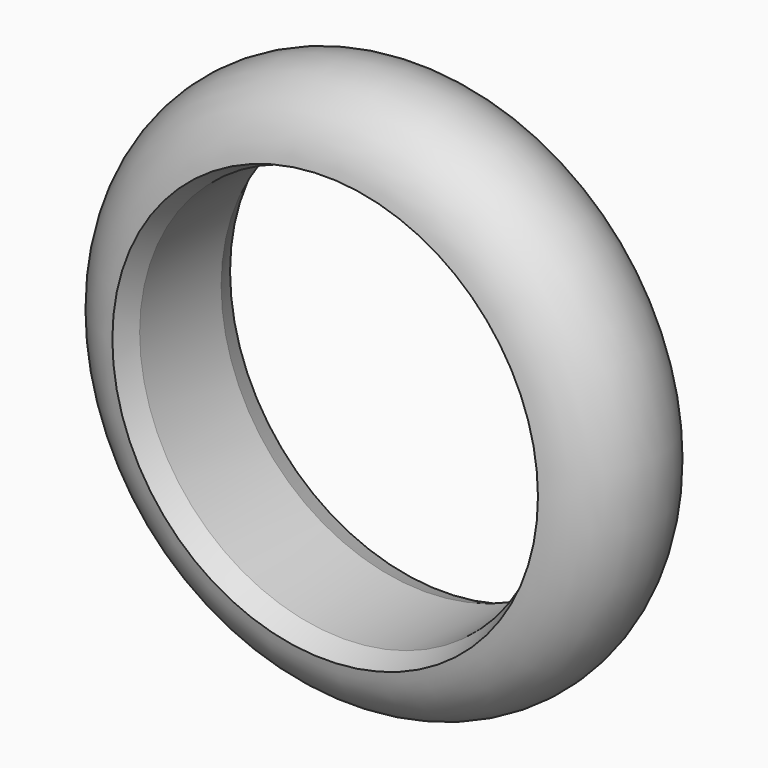
from build123d import *


with BuildPart() as f2:
    # F1 (on Top) → F2 (revolve)
    with BuildSketch(Plane.XY):
        with BuildLine():
            Line((10, 5), (10, 0))
            Line((10, 0), (10.449528, -1.112621))
            ThreePointArc((10.449528, -1.112621), (13.640481, 2.5), (10.449528, 6.112621))
            Line((10.449528, 6.112621), (10, 5))
        make_face()
    revolve(axis=Axis((0, 0.636724, 0), (0, 1, 0)))


solid = f2.part
